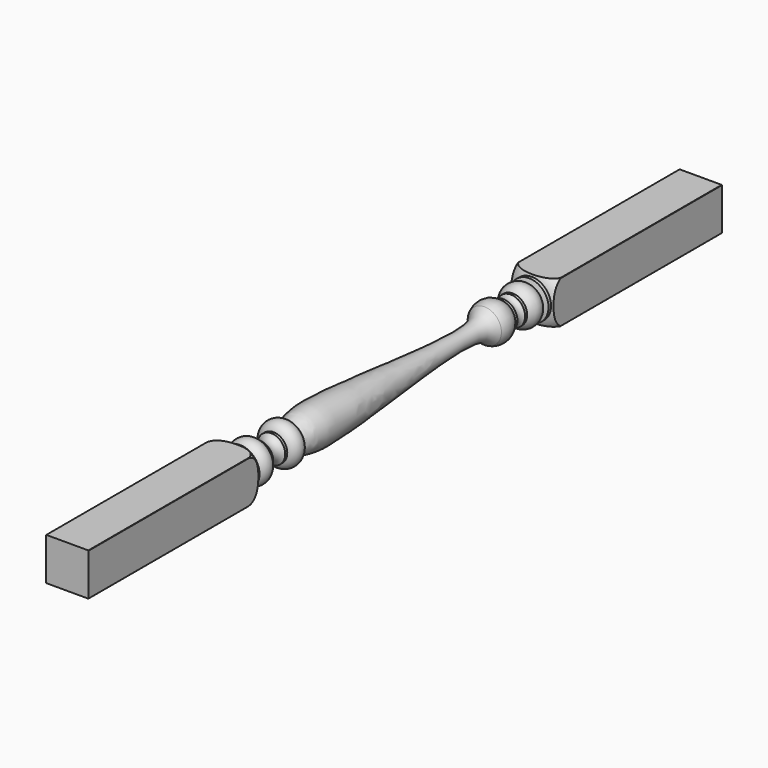
from build123d import *

# Parameters (mm, degrees)
F1_W     = 42.164
F1_H     = 42.164
F2_DEPTH = 329.31024
F3_DEPTH = 569.34836


with BuildPart() as f2:
    # F1 (on Front) → F2 (new body)
    with BuildSketch(Plane.XZ):
        with Locations((0, 42.9301898345)):
            Rectangle(F1_W, F1_H)
    extrude(amount=F2_DEPTH)

    # F3 (add): a face of the model
    f3_faces = [f2.faces().sort_by_distance(p)[0] for p in [
        (0, 0, 42.9301898345),
    ]]
    extrude(f3_faces, amount=F3_DEPTH)

    # F0 (on Right) → F4 (revolve, cut)
    with BuildSketch(Plane.YZ):
        with BuildLine():
            Line((-54.8137305173, 13.2756898345), (-252.7432305173, 13.2756898345))
            Line((-252.7432305173, 13.2756898345), (-252.7432305173, 42.9301898345))
            Line((-252.7432305173, 42.9301898345), (-379.7432305173, 42.9301898345))
            Line((-379.7432305173, 42.9301898345), (-379.7432305173, -33.8413101655))
            Line((-379.7432305173, -33.8413101655), (-278.6512305173, -33.8413101655))
            Line((-278.6512305173, -33.8413101655), (508.7487694827, -33.8413101655))
            Line((508.7487694827, -33.8413101655), (659.6247694827, -33.8413101655))
            Line((659.6247694827, -33.8413101655), (659.6247694827, 42.9301898345))
            Line((659.6247694827, 42.9301898345), (532.6247694827, 42.9301898345))
            Line((532.6247694827, 42.9301898345), (532.6247694827, 13.2756898345))
            Line((532.6247694827, 13.2756898345), (332.5997694827, 13.2756898345))
            ThreePointArc((332.5997694827, 13.2756898345), (326.6732676132, 17.4180539782), (323.0747694827, 23.6896898345))
            Line((323.0747694827, 23.6896898345), (319.8997694827, 23.6896898345))
            Line((319.8997694827, 23.6896898345), (318.6297694827, 28.6426898345))
            ThreePointArc((318.6297694827, 28.6426898345), (309.1047694827, 23.438365818), (299.5797694827, 28.6426898345))
            Line((299.5797694827, 28.6426898345), (297.0397694827, 28.6426898345))
            ThreePointArc((297.0397694827, 28.6426898345), (292.2772694827, 31.2935662933), (287.5147694827, 28.6426898345))
            Line((287.5147694827, 28.6426898345), (284.9747694827, 28.6426898345))
            ThreePointArc((284.9747694827, 28.6426898345), (275.2316630326, 23.9545092019), (264.6547694827, 26.1987203719))
            add(Edge.make_bspline(
                [(21.8942694827, 29.2141898345), (28.4865554268, 26.552207803), (50.5297240033, 15.4917034902), (251.7634528726, 44.0086182083), (260.945607642, 28.9800372784), (264.6547694827, 26.1987203719)],
                knots=[0, 0, 0, 0, 0.2362432857, 0.8252681562, 1, 1, 1, 1], degree=3))
            ThreePointArc((21.8942694827, 29.2141898345), (12.3692694827, 22.2197566023), (2.8442694827, 29.2141898345))
            Line((2.8442694827, 29.2141898345), (0.3042694827, 29.2141898345))
            ThreePointArc((0.3042694827, 29.2141898345), (-7.1252305173, 33.2970307484), (-14.5547305173, 29.2141898345))
            Line((-14.5547305173, 29.2141898345), (-17.0947305173, 29.2141898345))
            ThreePointArc((-17.0947305173, 29.2141898345), (-26.6197305173, 22.4321809186), (-36.1447305173, 29.2141898345))
            Line((-36.1447305173, 29.2141898345), (-38.4307305173, 23.6896898345))
            Line((-38.4307305173, 23.6896898345), (-41.6057305173, 23.6896898345))
            ThreePointArc((-41.6057305173, 23.6896898345), (-46.4038752866, 16.1923368591), (-54.8137305173, 13.2756898345))
        make_face()
    revolve(axis=Axis((0, 191.7567694827, 42.9301898345), (0, 1, 0)), mode=Mode.SUBTRACT)


solid = f2.part
